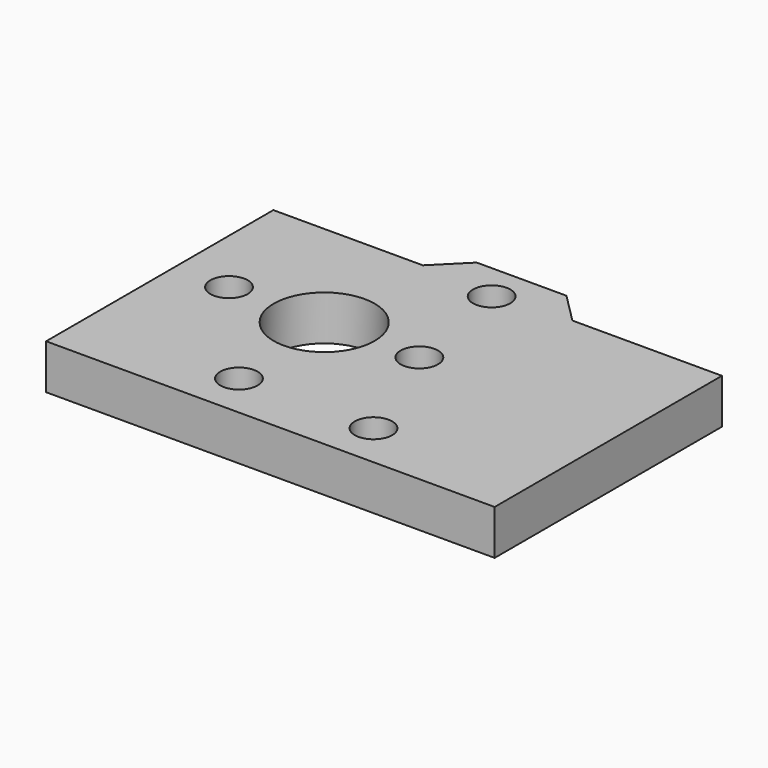
from build123d import *

# Parameters (mm, degrees)
F0_R      = 2.5
F0_W      = 40
F0_H      = 21
F0_R_2    = 6.75
F1_DEPTH  = 6
F1_FACE_W = 60
F1_FACE_H = 6
F2_DEPTH  = 1


with BuildPart() as f1:
    # F0 (on Top) → F1 (new body)
    with BuildSketch(Plane.XY):
        Polygon((30, 16.5), (20, 16.5), (10, 16.5), (6, 20.5), (-6, 20.5), (-10, 16.5), (-20, 16.5), (-30, 16.5), (-30, 10.5), (-30, -10.5), (-30, -22.5), (-20, -22.5), (20, -22.5), (30, -22.5), (30, -10.5), (30, 10.5), align=None)
        with Locations((-9, -15.5)):
            Circle(F0_R, mode=Mode.SUBTRACT)
        with Locations((9, -15.5)):
            Circle(F0_R, mode=Mode.SUBTRACT)
        with Locations((-22.73, 0)):
            Circle(F0_R, mode=Mode.SUBTRACT)
        Rectangle(F0_W, F0_H, mode=Mode.SUBTRACT)
        with Locations((0, 15.5)):
            Circle(F0_R, mode=Mode.SUBTRACT)
        Rectangle(F0_W, F0_H)
        with Locations((-10, 0)):
            Circle(F0_R_2, mode=Mode.SUBTRACT)
        with Locations((2.73, 0)):
            Circle(F0_R, mode=Mode.SUBTRACT)
    extrude(amount=F1_DEPTH)

    # F1_face (on face) → F2 (cut)
    with BuildSketch(Plane(origin=(0, -22.5, 3), x_dir=(1, 0, 0), z_dir=(0, -1, 0))):
        Rectangle(F1_FACE_W, F1_FACE_H)
    extrude(amount=-F2_DEPTH, mode=Mode.SUBTRACT)


solid = f1.part
